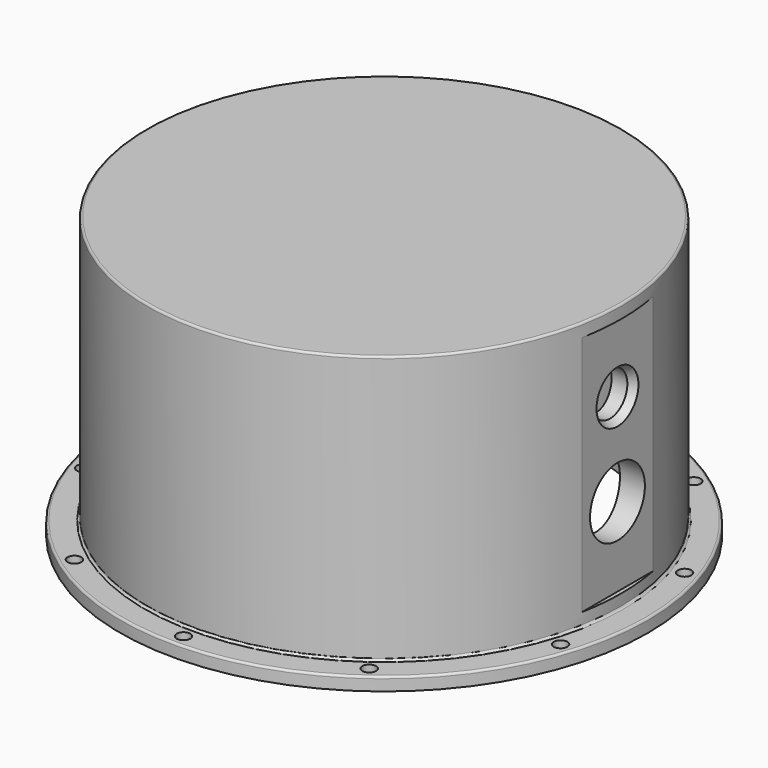
from build123d import *

# Parameters (mm, degrees)
F0_R      = 63.5
F1_DEPTH  = 3.175
F2_R      = 57.15
F3_DEPTH  = 67.6402
F4_R      = 50.8
F5_DEPTH  = 57.15
F6_R      = 1.6383
F7_DEPTH  = 3.175
F8_R      = 1.1303
F9_DEPTH  = 5.55625
F10_R     = 8.25
F10_R_2   = 5.25
F11_DEPTH = 58.1500001
F12_R     = 0.508
F14_W     = 26.67
F14_H     = 58.1152
F15_DEPTH = 1.016
F16_SIZE2 = 1.8186533479
F16_SIZE  = 1.05


with BuildPart() as f1:
    # F0 (on Top) → F1 (new body)
    with BuildSketch(Plane.XY):
        Circle(F0_R)
    extrude(amount=F1_DEPTH)

    # F2 (on Top) → F3 (join)
    with BuildSketch(Plane.XY):
        Circle(F2_R)
    extrude(amount=F3_DEPTH)

    # F4 (on face) → F5 (cut)
    with BuildSketch(Plane(origin=(0, 0, 0), x_dir=(1, 0, 0), z_dir=(0, 0, -1))):
        Circle(F4_R)
    extrude(amount=-F5_DEPTH, mode=Mode.SUBTRACT)

    # F6 (on face) → F7 (cut, through all)
    with BuildSketch(Plane(origin=(0, 0, 0), x_dir=(1, 0, 0), z_dir=(0, 0, -1))):
        with Locations((0, -60.325)):
            Circle(F6_R)
        with Locations((35.4581453445, -48.8039501857)):
            Circle(F6_R)
        with Locations((57.3724843455, -18.6414501857)):
            Circle(F6_R)
        with Locations((57.3724843455, 18.6414501857)):
            Circle(F6_R)
        with Locations((35.4581453445, 48.8039501857)):
            Circle(F6_R)
        with Locations((0, 60.325)):
            Circle(F6_R)
        with Locations((-35.4581453445, 48.8039501857)):
            Circle(F6_R)
        with Locations((-57.3724843455, 18.6414501857)):
            Circle(F6_R)
        with Locations((-57.3724843455, -18.6414501857)):
            Circle(F6_R)
        with Locations((-35.4581453445, -48.8039501857)):
            Circle(F6_R)
    extrude(amount=-F7_DEPTH, mode=Mode.SUBTRACT)

    # F8 (on face) → F9 (cut)
    with BuildSketch(Plane(origin=(0, 0, 57.15), x_dir=(1, 0, 0), z_dir=(0, 0, -1))):
        with Locations((31.115, -31.115)):
            Circle(F8_R)
        with Locations((-31.115, -31.115)):
            Circle(F8_R)
        with Locations((-31.115, 31.115)):
            Circle(F8_R)
        with Locations((31.115, 31.115)):
            Circle(F8_R)
        with Locations((3.175, 31.115)):
            Circle(F8_R)
        with Locations((-3.175, 31.115)):
            Circle(F8_R)
        with Locations((-31.115, 3.175)):
            Circle(F8_R)
        with Locations((31.115, 3.175)):
            Circle(F8_R)
        with Locations((31.115, -3.175)):
            Circle(F8_R)
        with Locations((3.175, -31.115)):
            Circle(F8_R)
        with Locations((-3.175, -31.115)):
            Circle(F8_R)
        with Locations((-31.115, -3.175)):
            Circle(F8_R)
        with Locations((31.115, -13.97)):
            Circle(F8_R)
        with Locations((31.115, 13.97)):
            Circle(F8_R)
        with Locations((-31.115, -13.97)):
            Circle(F8_R)
        with Locations((-31.115, 13.97)):
            Circle(F8_R)
        with Locations((-13.97, 31.115)):
            Circle(F8_R)
        with Locations((13.97, 31.115)):
            Circle(F8_R)
        with Locations((13.97, -31.115)):
            Circle(F8_R)
        with Locations((-13.97, -31.115)):
            Circle(F8_R)
    extrude(amount=-F9_DEPTH, mode=Mode.SUBTRACT)

    # F10 (on Right) → F11 (cut, up to face)
    with BuildSketch(Plane.YZ):
        with Locations((0, 25.4)):
            Circle(F10_R)
        with Locations((0, 47.625)):
            Circle(F10_R_2)
    extrude(amount=F11_DEPTH, mode=Mode.SUBTRACT)

    # F12
    f12_edges = [f1.edges().sort_by_distance(p)[0] for p in [
        (-57.15, 0, 67.6402),
        (-63.5, 0, 3.175),
        (-57.15, 0, 3.175),
        (-50.8, 0, 57.15),
    ]]
    fillet(f12_edges, radius=F12_R)

    # F14 (on offset) → F15 (cut)
    with BuildSketch(Plane.YZ.offset(57.15)):
        with Locations((0, 35.4076)):
            Rectangle(F14_W, F14_H)
    extrude(amount=-F15_DEPTH, mode=Mode.SUBTRACT)

    # F16
    f16_edges = [f1.edges().sort_by_distance(p)[0] for p in [
        (56.134, -5.25, 47.625),
    ]]
    f16_side = f1.faces().sort_by_distance((56.134, 0, 36.550673))[0]
    chamfer(f16_edges, length=F16_SIZE, length2=F16_SIZE2, reference=f16_side)


solid = f1.part
